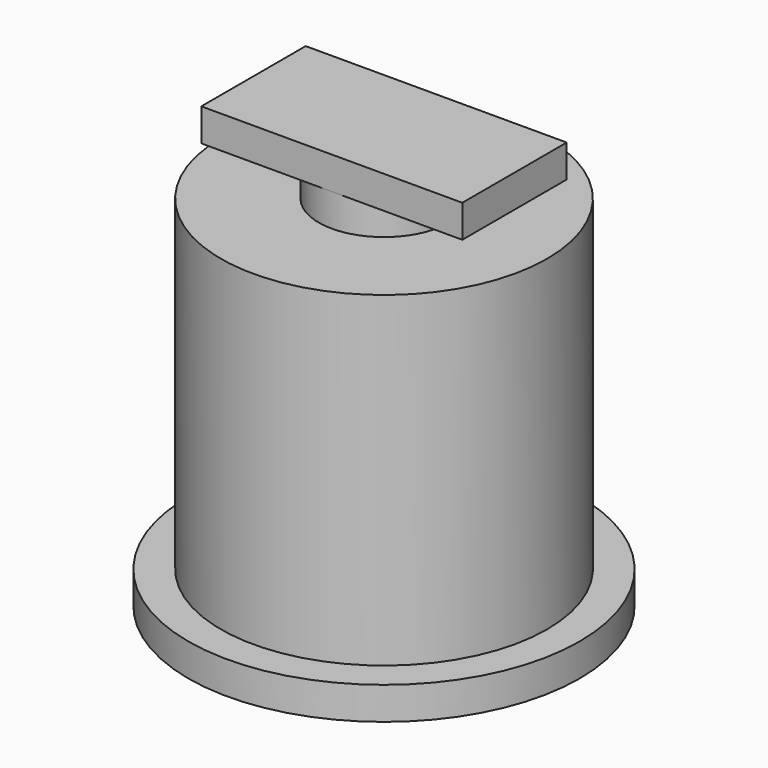
from build123d import *

# Parameters (mm, degrees)
F0_R     = 38.1
F1_DEPTH = 6.35
F2_R     = 31.75
F3_DEPTH = 63.5
F4_R     = 12.7
F5_DEPTH = 6.35
F6_W     = 50.8
F6_H     = 25.4
F7_DEPTH = 6.35


with BuildPart() as f1:
    # F0 (on Top) → F1 (new body)
    with BuildSketch(Plane.XY):
        Circle(F0_R)
    extrude(amount=F1_DEPTH)

    # F2 (on face) → F3 (join)
    with BuildSketch(Plane.XY.offset(6.35)):
        Circle(F2_R)
    extrude(amount=F3_DEPTH)


with BuildPart() as f5:
    # F4 (on face) → F5 (new body)
    with BuildSketch(Plane.XY.offset(69.85)):
        Circle(F4_R)
    extrude(amount=F5_DEPTH)

    # F6 (on face) → F7 (join)
    with BuildSketch(Plane.XY.offset(76.2)):
        Rectangle(F6_W, F6_H)
    extrude(amount=F7_DEPTH)


solid = Compound([f1.part, f5.part])
